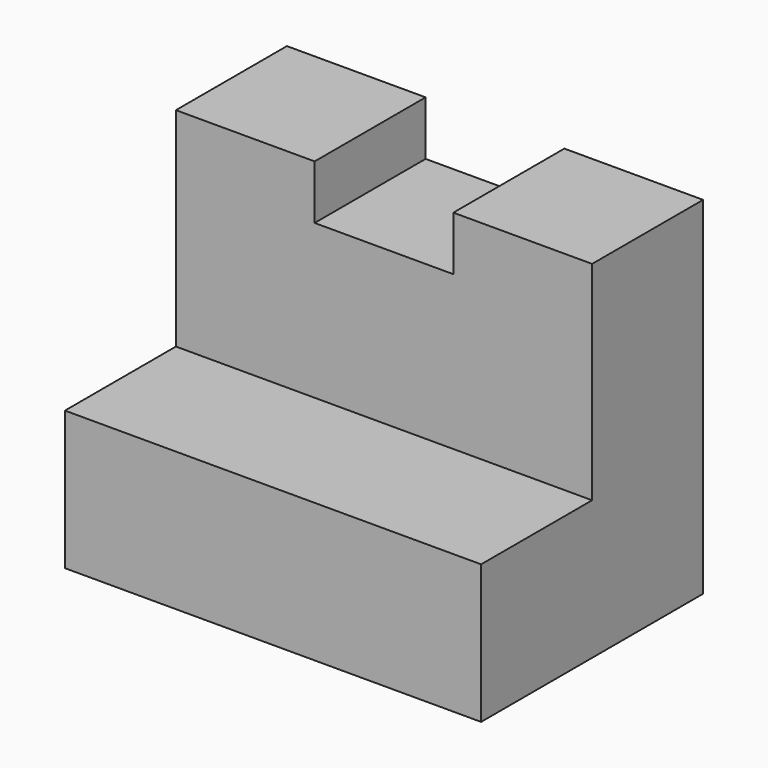
from build123d import *

# Parameters (mm, degrees)
F0_W     = 38.1
F0_H     = 12.7
F1_DEPTH = 25.4
F2_DEPTH = 12.7


with BuildPart() as f1:
    # F0 (on Front) → F1 (new body)
    with BuildSketch(Plane.XZ):
        with Locations((-20.834541, 12.73231)):
            Rectangle(F0_W, F0_H)
    extrude(amount=F1_DEPTH)

    # F0 (on Front) → F2 (join)
    with BuildSketch(Plane.XZ):
        Polygon((-27.184541, 38.13231), (-39.884541, 38.13231), (-39.884541, 19.08231), (-1.784541, 19.08231), (-1.784541, 38.13231), (-14.484541, 38.13231), (-14.484541, 33.171371), (-27.184541, 33.171371), align=None)
        with Locations((-20.834541, 12.73231)):
            Rectangle(F0_W, F0_H)
    extrude(amount=F2_DEPTH)


solid = f1.part
